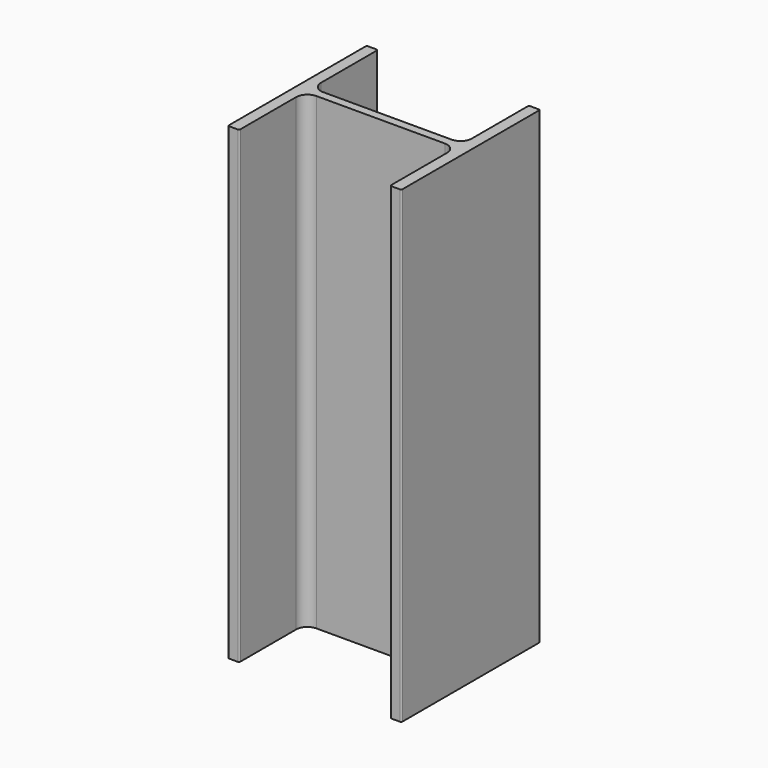
from build123d import *

# Parameters (mm, degrees)
F1_DEPTH = 1000
F2_R     = 24
F3_R     = 3


with BuildPart() as f1:
    # F0 (on Top) → F1 (new body)
    with BuildSketch(Plane.XY):
        Polygon((185, -185), (185, 185), (161, 185), (161, 9), (-161, 9), (-161, 185), (-185, 185), (-185, -185), (-161, -185), (-161, -9), (161, -9), (161, -185), align=None)
    extrude(amount=F1_DEPTH)

    # F2
    f2_edges = [f1.edges().sort_by_distance(p)[0] for p in [
        (-161, -9, 500),
        (161, -9, 500),
        (161, 9, 500),
        (-161, 9, 500),
    ]]
    fillet(f2_edges, radius=F2_R)

    # F3
    f3_edges = [f1.edges().sort_by_distance(p)[0] for p in [
        (161, 185, 500),
        (185, 185, 500),
        (-161, 185, 500),
        (-185, 185, 500),
        (185, -185, 500),
        (161, -185, 500),
        (-185, -185, 500),
        (-161, -185, 500),
    ]]
    fillet(f3_edges, radius=F3_R)


solid = f1.part
